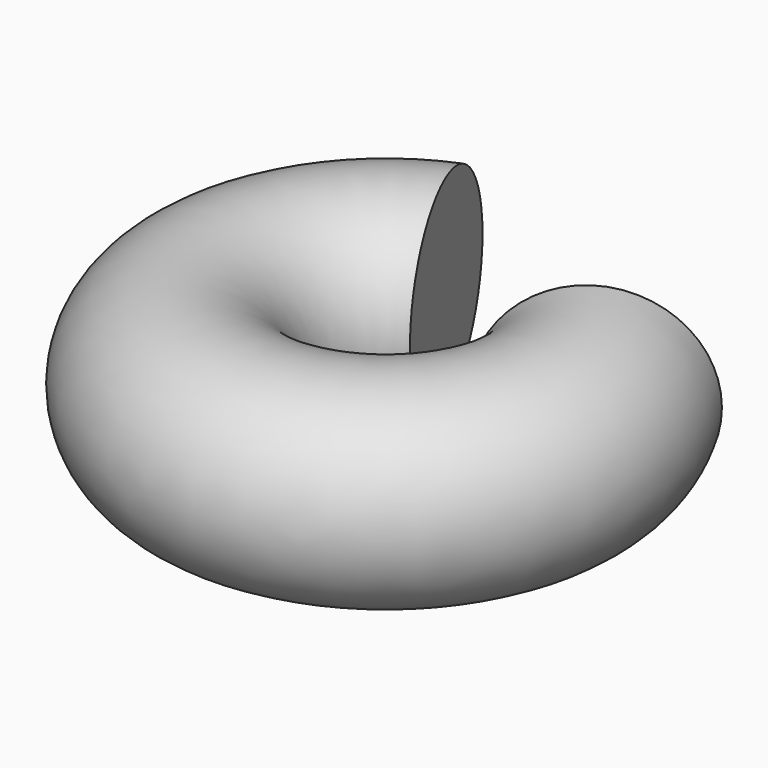
from build123d import *

# Parameters (mm, degrees)
F0_R          = 12.3452368191
F1_ANGLE_BACK = 247.8475566852
F1_ANGLE      = 277.8475566852


with BuildPart() as f1:
    # F0 (on Front) → F1 (revolve)
    with BuildSketch(Plane.XZ, mode=Mode.PRIVATE) as f1_sk:
        with Locations((20.5201227218, 0)):
            Circle(F0_R)
    revolve(f1_sk.sketch.rotate(Axis((0, 0, 5.0494540483), (0, 0, 1)), -F1_ANGLE_BACK), axis=Axis((0, 0, 5.0494540483), (0, 0, 1)), revolution_arc=F1_ANGLE)


solid = f1.part
